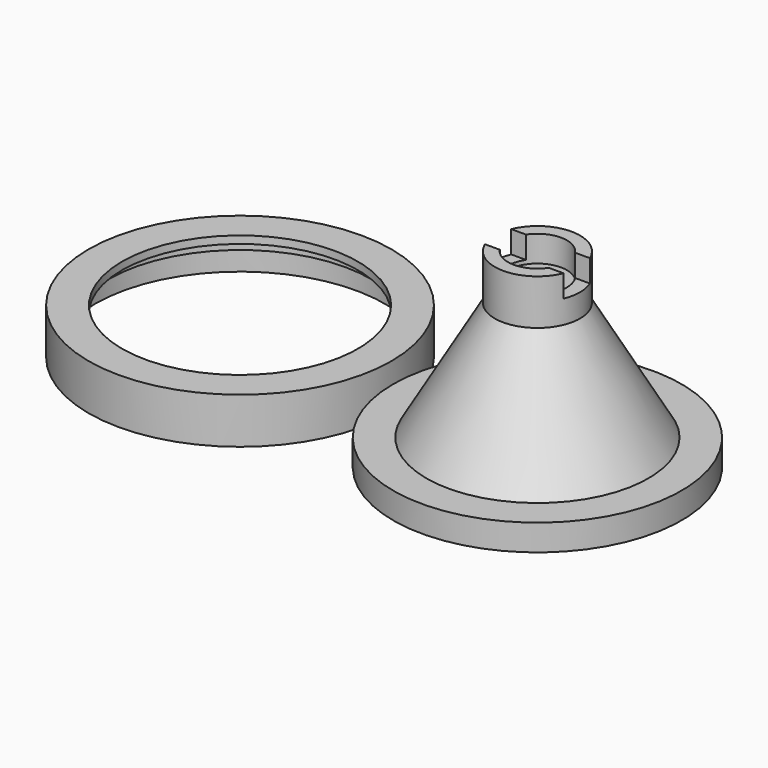
from build123d import *

# Parameters (mm, degrees)
F2_W     = 5
F2_H     = 8
F3_DEPTH = 7.5


with BuildPart() as f1:
    # F0 (on Front) → F1 (revolve)
    with BuildSketch(Plane.XZ):
        Polygon((-22, 0), (-20, 0), (-20, 1.5), (-15.622045, 2.271952), (-2.5, 25), (-4.5, 25), (-4.5, 29), (-6.5, 29), (-6.5, 22.071797), (-16.933757, 4), (-22, 4), align=None)
    revolve(axis=Axis((0, 0, 15.472903), (0, 0, 1)))

    # F2 (on Right) → F3 (cut, symmetric)
    with BuildSketch(Plane.YZ):
        with Locations((0, 29.6)):
            Rectangle(F2_W, F2_H)
    extrude(amount=F3_DEPTH, both=True, mode=Mode.SUBTRACT)


with BuildPart() as f5:
    # F4 (on Front) → F5 (revolve)
    with BuildSketch(Plane.XZ):
        Polygon((-63.362683, 7), (-68.462683, 7), (-68.462683, 0), (-67.462683, 0), (-67.462683, 4), (-65.362683, 4), (-65.362683, 5.5), (-63.362683, 5.852654), align=None)
    revolve(axis=Axis((-45.362683, 0, 7.750538), (0, 0, 1)))


solid = Compound([f1.part, f5.part])
